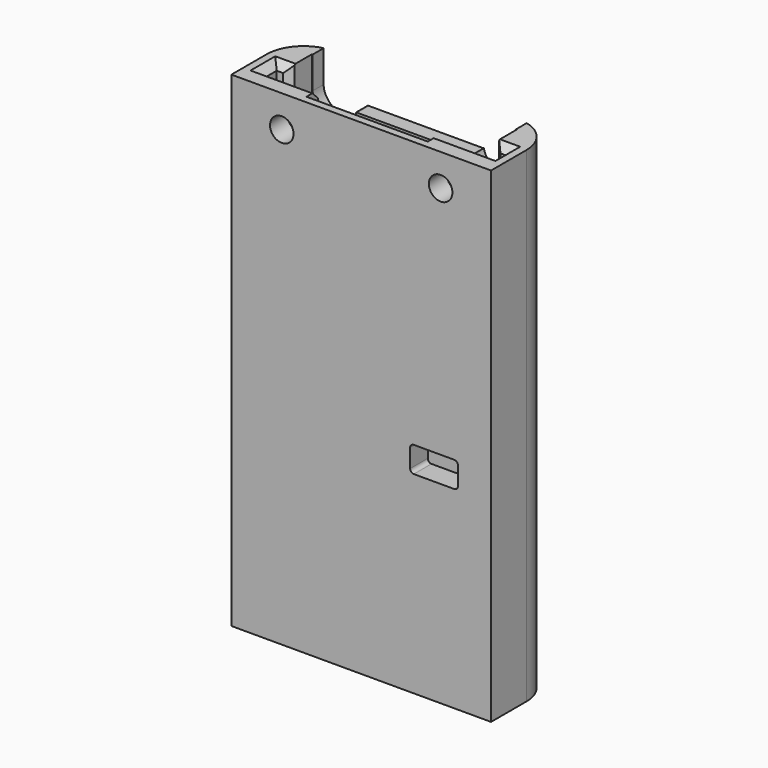
from build123d import *

# Parameters (mm, degrees)
F1_DEPTH  = 64
F3_DEPTH  = 2
F5_DEPTH  = 2
F7_DEPTH  = 2
F9_DEPTH  = 2
F10_SIZE  = 1
F11_R     = 1.6
F12_DEPTH = 3.001
F13_W     = 11
F13_H     = 5
F14_DEPTH = 1.5
F16_DEPTH = 5
F17_R     = 1.072280415
F18_DEPTH = 1
F20_DEPTH = 3


with BuildPart() as f1:
    # F0 (on Top) → F1 (new body)
    with BuildSketch(Plane.XY):
        with BuildLine():
            Line((28.3, 8), (15.65, 8))
            Line((15.65, 8), (3, 8))
            ThreePointArc((3, 8), (-0.5355339059, 6.5355339059), (-2, 3))
            Line((-2, 3), (-2, -3))
            Line((-2, -3), (15.65, -3))
            Line((15.65, -3), (33.3, -3))
            Line((33.3, -3), (33.3, 3))
            ThreePointArc((33.3, 3), (31.8355339059, 6.5355339059), (28.3, 8))
        make_face()
        Polygon((15.65, 0), (0, 0), (0, 2.2), (0.875, 2.2), (1.75, 3.075), (1.75, 6), (15.65, 6), (29.55, 6), (29.55, 3.075), (30.425, 2.2), (31.3, 2.2), (31.3, 0), align=None, mode=Mode.SUBTRACT)
    extrude(amount=F1_DEPTH)

    # F2 (on face) → F3 (join)
    with BuildSketch(Plane(origin=(0, 0, 0), x_dir=(1, 0, 0), z_dir=(0, 0, -1))):
        with BuildLine():
            ThreePointArc((-2, -3), (-0.5355339059, -6.5355339059), (3, -8))
            Line((3, -8), (28.3, -8))
            ThreePointArc((28.3, -8), (31.8355339059, -6.5355339059), (33.3, -3))
            Line((33.3, -3), (33.3, 3))
            Line((33.3, 3), (-2, 3))
            Line((-2, 3), (-2, -3))
        make_face()
    extrude(amount=F3_DEPTH)

    # F4 (on face) → F5 (cut, through all)
    with BuildSketch(Plane(origin=(0, 8, 0), x_dir=(-1, 0, 0), z_dir=(0, 1, 0))):
        with BuildLine():
            Line((-7.4, 59.5), (-7.4, 64))
            Line((-7.4, 64), (-15.65, 64))
            Line((-15.65, 64), (-23.9, 64))
            Line((-23.9, 64), (-23.9, 59.5))
            ThreePointArc((-23.9, 59.5), (-23.7535533906, 59.1464466094), (-23.4, 59))
            Line((-23.4, 59), (-15.65, 59))
            Line((-15.65, 59), (-7.9, 59))
            ThreePointArc((-7.9, 59), (-7.5464466094, 59.1464466094), (-7.4, 59.5))
        make_face()
    extrude(amount=-F5_DEPTH, mode=Mode.SUBTRACT)

    # F6 (on face) → F7 (cut, through all)
    with BuildSketch(Plane(origin=(0, 8, 0), x_dir=(-1, 0, 0), z_dir=(0, 1, 0))):
        with BuildLine():
            Line((-7.85, 64.5738318563), (-7.85, 59.65))
            ThreePointArc((-7.85, 59.65), (-4.85, 56.65), (-1.85, 59.65))
            Line((-1.85, 59.65), (-1.85, 64.5738318563))
            Line((-1.85, 64.5738318563), (-7.85, 64.5738318563))
        make_face()
        with BuildLine():
            ThreePointArc((-29.45, 59.65), (-26.45, 56.65), (-23.45, 59.65))
            Line((-23.45, 59.65), (-23.45, 64.5738318563))
            Line((-23.45, 64.5738318563), (-29.45, 64.5738318563))
            Line((-29.45, 64.5738318563), (-29.45, 59.65))
        make_face()
    extrude(amount=-F7_DEPTH, mode=Mode.SUBTRACT)

    # F8 (on face) → F9 (cut)
    with BuildSketch(Plane(origin=(0, 0, 0), x_dir=(-1, 0, 0), z_dir=(0, 1, 0))):
        with BuildLine():
            Line((-7.4, 59.5), (-7.4, 64))
            Line((-7.4, 64), (-15.65, 64))
            Line((-15.65, 64), (-23.9, 64))
            Line((-23.9, 64), (-23.9, 59.5))
            ThreePointArc((-23.9, 59.5), (-23.7535533906, 59.1464466094), (-23.4, 59))
            Line((-23.4, 59), (-15.65, 59))
            Line((-15.65, 59), (-7.9, 59))
            ThreePointArc((-7.9, 59), (-7.5464466094, 59.1464466094), (-7.4, 59.5))
        make_face()
    extrude(amount=-F9_DEPTH, mode=Mode.SUBTRACT)

    # F10
    f10_edges = [f1.edges().sort_by_distance(p)[0] for p in [
        (3.7, 0, 64),
        (27.6, 0, 64),
        (0, 1.1, 64),
        (0.4375, 2.2, 64),
        (31.3, 1.1, 64),
        (30.8625, 2.2, 64),
    ]]
    chamfer(f10_edges, length=F10_SIZE)

    # F11 (on face) → F12 (cut, through all)
    with BuildSketch(Plane(origin=(0, 0, 0), x_dir=(-1, 0, 0), z_dir=(0, 1, 0))):
        with Locations((-4.85, 59.65)):
            Circle(F11_R)
        with Locations((-26.45, 59.65)):
            Circle(F11_R)
    extrude(amount=-F12_DEPTH, mode=Mode.SUBTRACT)

    # F13 (on face) → F14 (cut)
    with BuildSketch(Plane.XZ.offset(-6)):
        with Locations((24.05, 41.5)):
            Rectangle(F13_W, F13_H)
    extrude(amount=-F14_DEPTH, mode=Mode.SUBTRACT)

    # F15 (on face) → F16 (join, through all)
    with BuildSketch(Plane.XY.offset(39)):
        with BuildLine():
            Line((29.55, 7.5), (28.3, 7.5))
            ThreePointArc((28.3, 7.5), (28.9312414261, 7.4555060613), (29.55, 7.3229041164))
            Line((29.55, 7.3229041164), (29.55, 7.5))
        make_face()
    extrude(amount=F16_DEPTH)

    # F17 (on face) → F18 (cut)
    with BuildSketch(Plane(origin=(0, 8, 0), x_dir=(-1, 0, 0), z_dir=(0, 1, 0))):
        Polygon((-15.0674888864, 32.9711548984), (-21.5556509793, 29.2659867555), (-20.8310857415, 28.0473995954), (-15.0839583948, 31.324416399), (-7.55834952, 26.9770175219), (-7.55834952, 18.298689276), (-15.0839583948, 13.9512922615), (-22.6260330528, 18.3151569217), (-22.6260330528, 23.7329360098), (-24.0422300994, 23.7329360098), (-24.0422300994, 17.4588505179), (-15.0839565322, 12.3374853283), (-6.1586168595, 17.5247211009), (-6.1586168595, 27.8168544173), align=None)
        with Locations((-23.2353284955, 26.7135389149)):
            Circle(F17_R)
        Polygon((-12.0868515223, 19.9723746628), (-12.0868515223, 25.3138449043), (-13.3068170398, 25.3028552979), (-13.3068170398, 22.0715943724), (-14.3948951736, 25.3028552979), (-15.8236827701, 25.3028552979), (-16.9117599726, 22.060604766), (-16.9117599726, 25.3028552979), (-18.1207358837, 25.3028552979), (-18.1207358837, 19.9723746628), (-16.4281707257, 19.9723746628), (-15.1202799752, 23.9180289209), (-13.7684261426, 19.9723746628), align=None)
    extrude(amount=-F18_DEPTH, mode=Mode.SUBTRACT)

    # F19 (on face) → F20 (cut, through all)
    with BuildSketch(Plane.XZ.offset(3)):
        with BuildLine():
            Line((28.3, 27.75), (22.8, 27.75))
            ThreePointArc((22.8, 27.75), (22.4464466094, 27.6035533906), (22.3, 27.25))
            Line((22.3, 27.25), (22.3, 24.75))
            ThreePointArc((22.3, 24.75), (22.4464466094, 24.3964466094), (22.8, 24.25))
            Line((22.8, 24.25), (28.3, 24.25))
            ThreePointArc((28.3, 24.25), (28.6535533906, 24.3964466094), (28.8, 24.75))
            Line((28.8, 24.75), (28.8, 27.25))
            ThreePointArc((28.8, 27.25), (28.6535533906, 27.6035533906), (28.3, 27.75))
        make_face()
    extrude(amount=-F20_DEPTH, mode=Mode.SUBTRACT)


solid = f1.part
